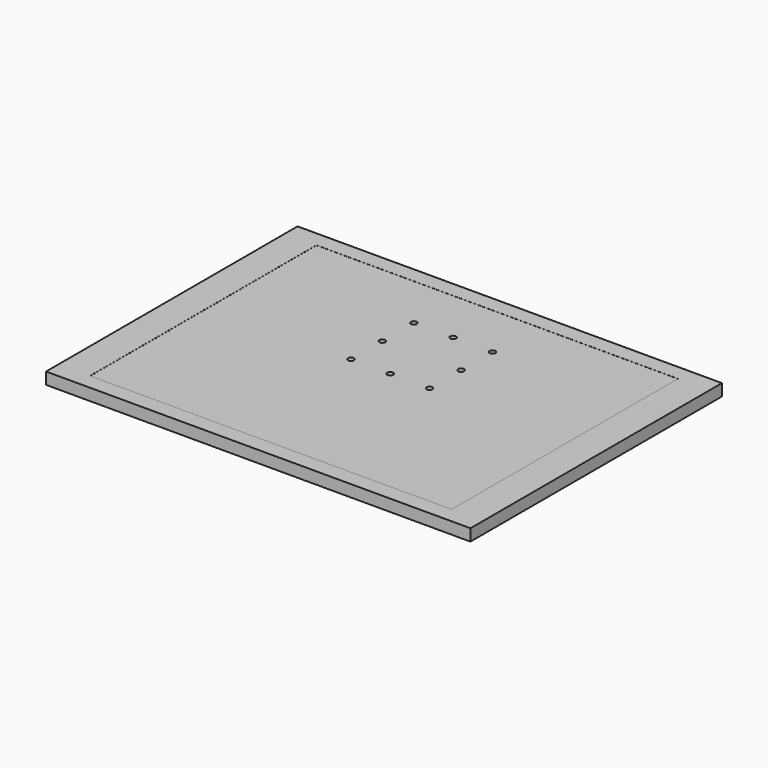
from build123d import *

# Parameters (mm, degrees)
F0_W           = 685.8
F0_H           = 508
F1_DEPTH       = 19.05
F3_D           = 6.35
F3_CBORE_D     = 9.525
F3_CBORE_DEPTH = 6.35
F4_W           = 584.2
F4_H           = 457.2
F5_DEPTH       = 0.127


with BuildPart() as f1:
    # F0 (on Top) → F1 (new body)
    with BuildSketch(Plane.XY):
        Rectangle(F0_W, F0_H)
    extrude(amount=F1_DEPTH)

    # F3 (through all)
    with Locations(Plane.XY.offset(19.05)):
        with Locations((-63.5, 139.7), (-63.5, 76.2), (-63.5, 12.7), (0, 12.7), (63.5, 12.7), (63.5, 76.2), (63.5, 139.7), (0, 139.7)):
            CounterBoreHole(F3_D / 2, F3_CBORE_D / 2, F3_CBORE_DEPTH)

    # F4 (on face) → F5 (cut)
    with BuildSketch(Plane.XY.offset(19.05)):
        Rectangle(F4_W, F4_H)
    extrude(amount=-F5_DEPTH, mode=Mode.SUBTRACT)


solid = f1.part
